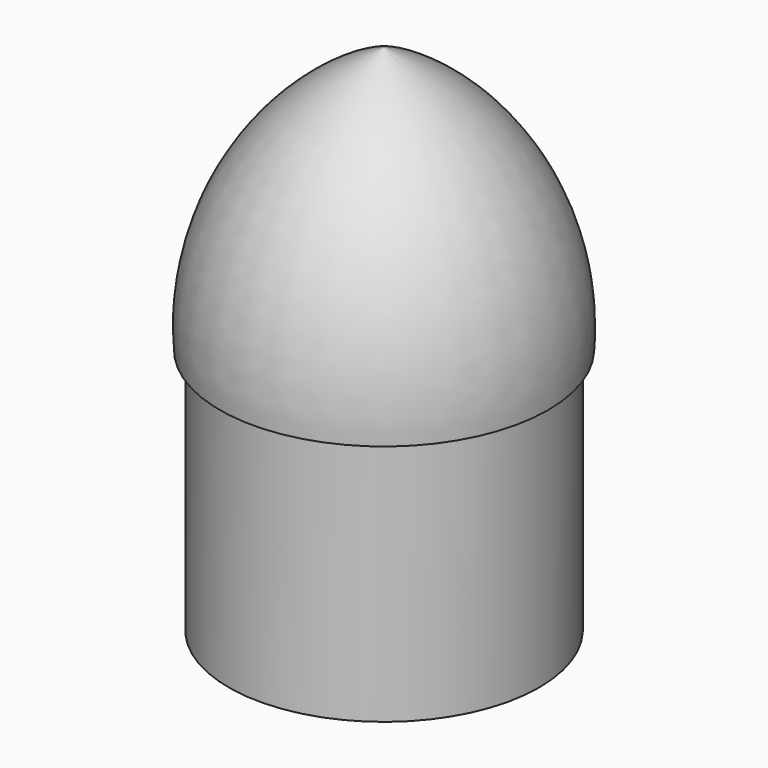
from build123d import *


with BuildPart() as f1:
    # F0 (on Front) → F1 (revolve)
    with BuildSketch(Plane.XZ):
        with BuildLine():
            Line((0, 30), (0, 29.185718))
            ThreePointArc((0, 29.185718), (6.358504, 23.746019), (8.58776, 15.68058))
            Line((8.58776, 15.68058), (8.05, 15.68058))
            Line((8.05, 15.68058), (8.05, 0.93058))
            Line((8.05, 0.93058), (8.8, 0.93058))
            Line((8.8, 0.93058), (8.8, 14.93058))
            Line((8.8, 14.93058), (9.3, 14.93058))
            ThreePointArc((9.3, 14.93058), (7.099005, 23.976678), (0, 30))
        make_face()
    revolve(axis=Axis((0, 0, 15), (0, 0, 1)))


solid = f1.part
